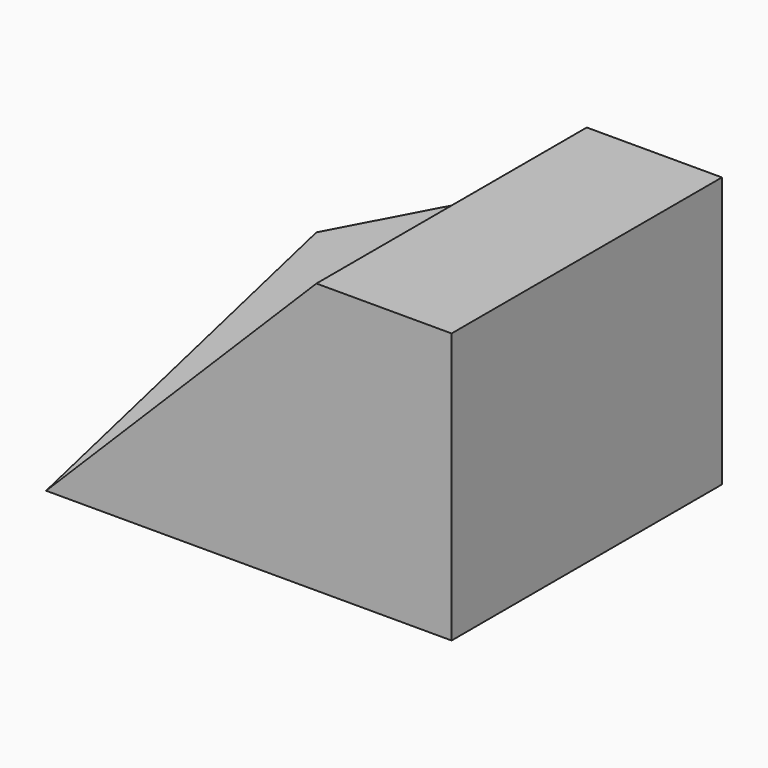
from build123d import *

# Parameters (mm, degrees)
F1_DEPTH      = 25
F1_DEPTH_BACK = 25


with BuildPart() as f1:
    # F0 (on Front) → F1 (new body, two sides)
    with BuildSketch(Plane.XZ) as f1_sk:
        Polygon((-60, 0), (0, 0), (0, 40), (-20, 40), align=None)
    extrude(amount=F1_DEPTH)
    extrude(f1_sk.sketch, amount=-F1_DEPTH_BACK)

    # F2 (on face) → F3 section 0
    with BuildSketch(Plane(origin=(-30, 0, 30), x_dir=(0, -1, 0), z_dir=(-0.707107, 0, 0.707107)), mode=Mode.PRIVATE) as f3_s0:
        Polygon((25, -42.426407), (0, 14.142136), (-25, -42.426407), align=None)
    loft([f3_s0.sketch, Vertex(-40, 0, 30)])


solid = f1.part
